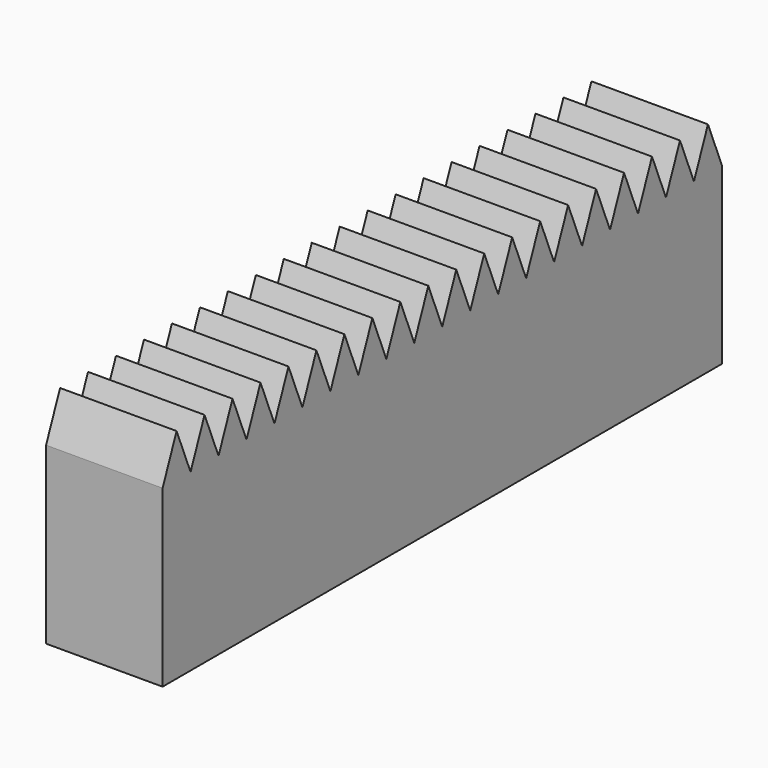
from build123d import *

# Parameters (mm, degrees)
F1_DEPTH = 12.7


with BuildPart() as f1:
    # F0 (on Right) → F1 (new body, symmetric)
    with BuildSketch(Plane.YZ):
        Polygon((76.2, -19.05), (76.2, 19.05), (68.58, 19.05), (60.96, 19.05), (53.34, 19.05), (45.72, 19.05), (38.1, 19.05), (30.48, 19.05), (22.86, 19.05), (15.24, 19.05), (7.62, 19.05), (0, 19.05), (-7.62, 19.05), (-15.24, 19.05), (-22.86, 19.05), (-30.48, 19.05), (-38.1, 19.05), (-45.72, 19.05), (-53.34, 19.05), (-60.96, 19.05), (-68.58, 19.05), (-76.2, 19.05), (-76.2, -19.05), align=None)
        Polygon((68.58, 19.05), (76.2, 19.05), (72.39, 28.468572), align=None)
        Polygon((60.96, 19.05), (68.58, 19.05), (64.77, 28.468572), align=None)
        Polygon((53.34, 19.05), (60.96, 19.05), (57.15, 28.468572), align=None)
        Polygon((45.72, 19.05), (53.34, 19.05), (49.53, 28.468572), align=None)
        Polygon((-72.39, 28.468572), (-76.2, 19.05), (-68.58, 19.05), align=None)
        Polygon((38.1, 19.05), (45.72, 19.05), (41.91, 28.468572), align=None)
        Polygon((-64.77, 28.468572), (-68.58, 19.05), (-60.96, 19.05), align=None)
        Polygon((30.48, 19.05), (38.1, 19.05), (34.29, 28.468572), align=None)
        Polygon((-57.15, 28.468572), (-60.96, 19.05), (-53.34, 19.05), align=None)
        Polygon((22.86, 19.05), (30.48, 19.05), (26.67, 28.468572), align=None)
        Polygon((-49.53, 28.468572), (-53.34, 19.05), (-45.72, 19.05), align=None)
        Polygon((15.24, 19.05), (22.86, 19.05), (19.05, 28.468572), align=None)
        Polygon((-41.91, 28.468572), (-45.72, 19.05), (-38.1, 19.05), align=None)
        Polygon((7.62, 19.05), (15.24, 19.05), (11.43, 28.468572), align=None)
        Polygon((-34.29, 28.468572), (-38.1, 19.05), (-30.48, 19.05), align=None)
        Polygon((0, 19.05), (7.62, 19.05), (3.81, 28.468572), align=None)
        Polygon((-26.67, 28.468572), (-30.48, 19.05), (-22.86, 19.05), align=None)
        Polygon((-7.62, 19.05), (0, 19.05), (-3.81, 28.468572), align=None)
        Polygon((-19.05, 28.468572), (-22.86, 19.05), (-15.24, 19.05), align=None)
        Polygon((-15.24, 19.05), (-7.62, 19.05), (-11.43, 28.468572), align=None)
    extrude(amount=F1_DEPTH, both=True)


solid = f1.part
